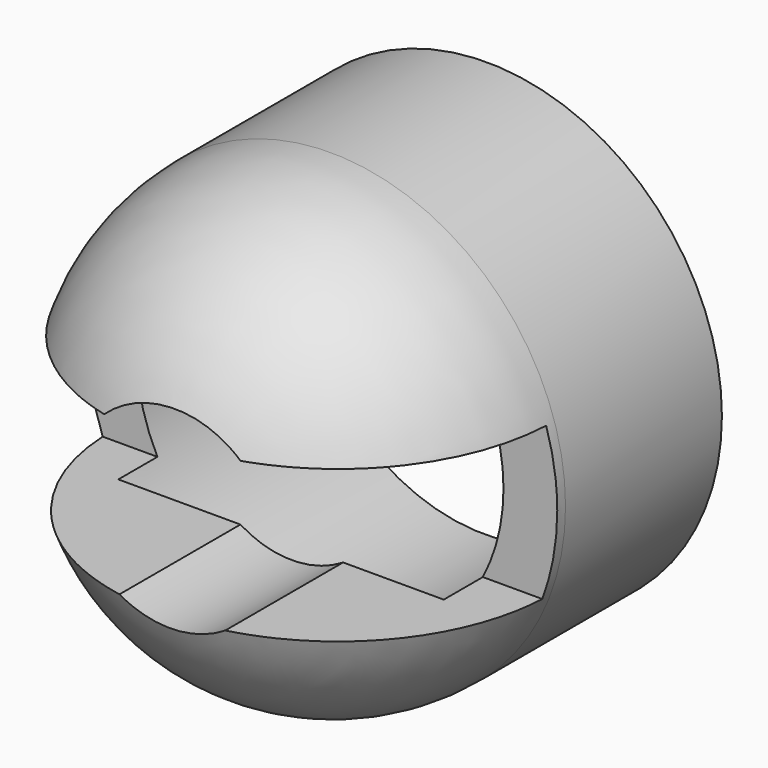
from build123d import *

# Parameters (mm, degrees)
F0_R     = 3.27
F1_DEPTH = 5.87
F2_R     = 3.15
F3_W     = 12.847729
F3_H     = 2.14129
F4_DEPTH = 3.01
F5_R     = 1.353715
F6_DEPTH = 25.4
F7_R     = 2.551292
F8_DEPTH = 3.54


with BuildPart() as f1:
    # F0 (on Front) → F1 (new body)
    with BuildSketch(Plane.XZ):
        with Locations((-25.3723, 25.103809)):
            Circle(F0_R)
    extrude(amount=F1_DEPTH)

    # F2
    f2_edges = [f1.edges().sort_by_distance(p)[0] for p in [
        (-28.6423, -5.87, 25.103809),
    ]]
    fillet(f2_edges, radius=F2_R)

    # F3 (on face) → F4 (cut)
    with BuildSketch(Plane.XZ.offset(5.87)):
        with Locations((-25.525428, 25.025891)):
            Rectangle(F3_W, F3_H)
    extrude(amount=-F4_DEPTH, mode=Mode.SUBTRACT)

    # F5 (on Front) → F6 (cut)
    with BuildSketch(Plane.XZ):
        with Locations((-25.255676, 25.105048)):
            Circle(F5_R)
    extrude(amount=F6_DEPTH, mode=Mode.SUBTRACT)

    # F7 (on Front) → F8 (cut)
    with BuildSketch(Plane.XZ):
        with Locations((-25.405101, 25.131198)):
            Circle(F7_R)
    extrude(amount=F8_DEPTH, mode=Mode.SUBTRACT)


solid = f1.part
